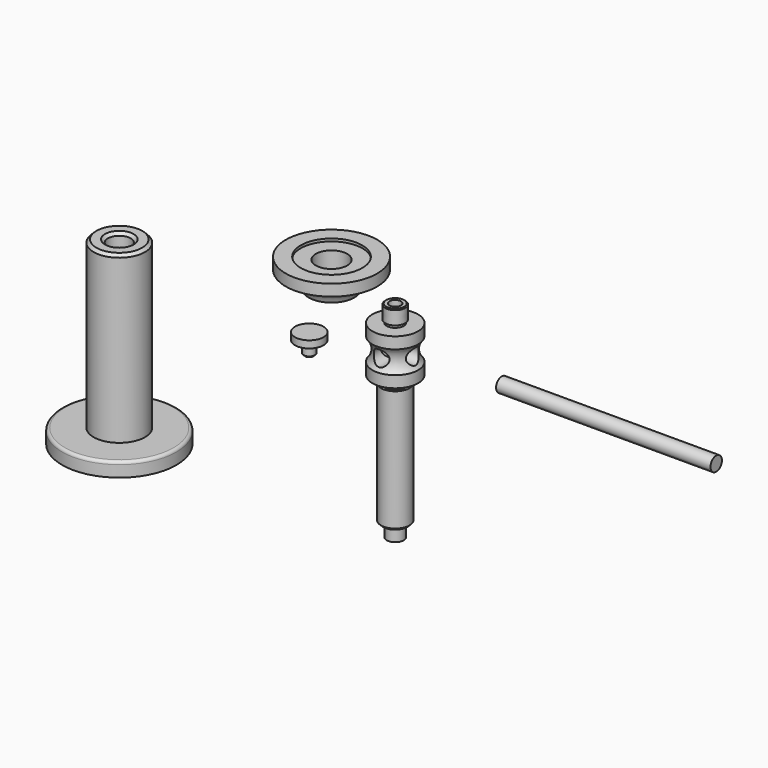
from build123d import *

# Parameters (mm, degrees)
F2_R          = 5.5
F3_DEPTH      = 25.4
F3_DEPTH_BACK = 25.4
F4_R          = 5.5
F5_DEPTH      = 25.4
F5_DEPTH_BACK = 25.4
F6_W          = 150
F6_H          = 5
F12_R         = 4
F13_DEPTH     = 7


with BuildPart() as f1:
    # F0 (on Right) → F1 (revolve)
    with BuildSketch(Plane.YZ):
        with BuildLine():
            Line((0, 81.3450289474), (0, -62.6549710526))
            Line((0, -62.6549710526), (6, -62.6549710526))
            Line((6, -62.6549710526), (6, -53.6549710526))
            Line((6, -53.6549710526), (8.5, -53.6549710526))
            Line((8.5, -53.6549710526), (10, -52.1549710526))
            Line((10, -52.1549710526), (10, 32.3450289474))
            Line((10, 32.3450289474), (8, 32.3450289474))
            Line((8, 32.3450289474), (8, 37.3450289474))
            Line((8, 37.3450289474), (16, 37.3450289474))
            Line((16, 37.3450289474), (16, 45.4077750142))
            ThreePointArc((16, 45.4077750142), (13, 53.3450289474), (16, 61.2822828806))
            Line((16, 61.2822828806), (16, 69.3450289474))
            Line((16, 69.3450289474), (6, 69.3450289474))
            Line((6, 69.3450289474), (6, 71.3450289474))
            Line((6, 71.3450289474), (6.9799432531, 71.3569447398))
            Line((6.9799432531, 71.3569447398), (6.998759068, 80.7270556765))
            Line((6.998759068, 80.7270556765), (6.2972502783, 81.3450289474))
            Line((6.2972502783, 81.3450289474), (0, 81.3450289474))
        make_face()
    revolve(axis=Axis((0, 0, 9.3450289474), (0, 0, 1)))

    # F2 (on Front) → F3 (cut, two sides)
    with BuildSketch(Plane.XZ) as f3_sk:
        with Locations((0, 53.3450289474)):
            Circle(F2_R)
    extrude(amount=-F3_DEPTH, mode=Mode.SUBTRACT)
    extrude(f3_sk.sketch, amount=F3_DEPTH_BACK, mode=Mode.SUBTRACT)

    # F4 (on Right) → F5 (cut, two sides)
    with BuildSketch(Plane.YZ) as f5_sk:
        with Locations((0, 53.3450289474)):
            Circle(F4_R)
    extrude(amount=F5_DEPTH, mode=Mode.SUBTRACT)
    extrude(f5_sk.sketch, amount=-F5_DEPTH_BACK, mode=Mode.SUBTRACT)

    # F12 (on face) → F13 (cut)
    with BuildSketch(Plane.XY.offset(81.3450289474)):
        Circle(F12_R)
    extrude(amount=-F13_DEPTH, mode=Mode.SUBTRACT)


with BuildPart() as f7:
    # F6 (on Front) → F7 (revolve)
    with BuildSketch(Plane.XZ):
        with Locations((149.5501628326, 58.1229347736)):
            Rectangle(F6_W, F6_H)
    revolve(axis=Axis((149.5501628326, 0, 55.6229347736), (1, 0, 0)))


with BuildPart() as f9:
    # F8 (on Front) → F9 (revolve)
    with BuildSketch(Plane.XZ):
        Polygon((-50.1540284604, 44.1861839128), (-60.1540284604, 44.1861839128), (-60.1540284604, 30.1861839128), (-57.1540284604, 30.1861839128), (-56.1540284604, 31.1861839128), (-56.1540284604, 38.1861839128), (-57.1540284604, 38.1861839128), (-57.1540284604, 39.1861839128), (-50.1540284604, 39.1861839128), align=None)
    revolve(axis=Axis((-60.1540284604, 0, 37.1861839128), (0, 0, 1)))


with BuildPart() as f11:
    # F10 (on Front) → F11 (revolve)
    with BuildSketch(Plane.XZ):
        with BuildLine():
            Line((-12.5677749813, 95.607760791), (-23.0677749813, 95.607760791))
            Line((-23.0677749813, 95.607760791), (-22.9631751254, 93.7249258811))
            Line((-22.9631751254, 93.7249258811), (-33.5677749813, 93.7249258811))
            Line((-33.5677749813, 93.7249258811), (-33.5677749813, 81.3072902979))
            Line((-33.5677749813, 81.3072902979), (-37.0677749813, 81.3072902979))
            Line((-37.0677749813, 81.3072902979), (-37.0677749813, 75.607760791))
            Line((-37.0677749813, 75.607760791), (-28.5677749813, 75.607760791))
            ThreePointArc((-28.5677749813, 75.607760791), (-22.5677749813, 84.2744274577), (-12.5677749813, 87.607760791))
            Line((-12.5677749813, 87.607760791), (-12.5677749813, 95.607760791))
        make_face()
    revolve(axis=Axis((-44.5677749813, 0, 80.2089683712), (0, 0, -1)))


with BuildPart() as f15:
    # F14 (on Front) → F15 (revolve)
    with BuildSketch(Plane.XZ):
        with BuildLine():
            Line((-175.0377334356, -58), (-175.0377334356, 56))
            Line((-175.0377334356, 56), (-177.0377334356, 58))
            Line((-177.0377334356, 58), (-183.0377334356, 58))
            Line((-183.0377334356, 58), (-185.0377334356, 56))
            Line((-185.0377334356, 56), (-185.0377334356, 0))
            Line((-185.0377334356, 0), (-181.0377334356, 0))
            Line((-181.0377334356, 0), (-181.0377334356, -66))
            Line((-181.0377334356, -66), (-170.0377334356, -66))
            ThreePointArc((-170.0377334356, -66), (-168.6235198733, -66.5857864376), (-168.0377334356, -68))
            Line((-168.0377334356, -68), (-153.0377334356, -68))
            Line((-153.0377334356, -68), (-153.0377334356, -60))
            ThreePointArc((-153.0377334356, -60), (-153.6235198733, -58.5857864376), (-155.0377334356, -58))
            Line((-155.0377334356, -58), (-175.0377334356, -58))
        make_face()
    revolve(axis=Axis((-193.0377334356, 0, -22.8708423674), (0, 0, -1)))


solid = Compound([f1.part, f7.part, f9.part, f11.part, f15.part])
